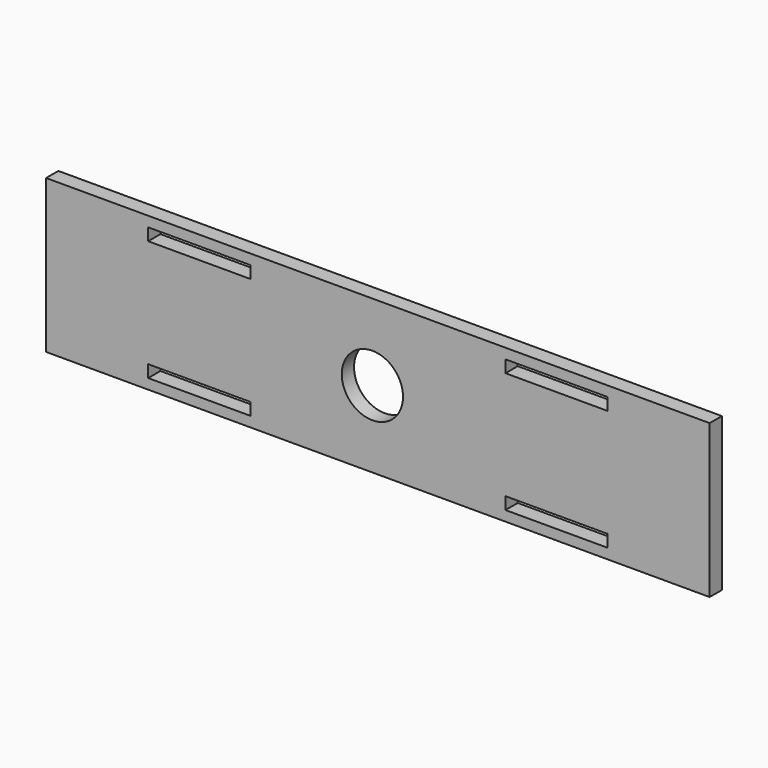
from build123d import *

# Parameters (mm, degrees)
F0_W     = 165.1
F0_H     = 38.1
F0_W_2   = 25.4
F0_H_2   = 3.048
F2_DEPTH = 3.81
F1_R     = 7.616868
F3_DEPTH = 28.956


with BuildPart() as f2:
    # F0 (on Front) → F2 (new body)
    with BuildSketch(Plane.XZ):
        with Locations((1.365851, 19.05)):
            Rectangle(F0_W, F0_H)
        with Locations((-43.084149, 4.064)):
            Rectangle(F0_W_2, F0_H_2, mode=Mode.SUBTRACT)
        with Locations((45.815851, 4.064)):
            Rectangle(F0_W_2, F0_H_2, mode=Mode.SUBTRACT)
        with Locations((-43.084149, 34.036)):
            Rectangle(F0_W_2, F0_H_2, mode=Mode.SUBTRACT)
        with Locations((45.815851, 34.036)):
            Rectangle(F0_W_2, F0_H_2, mode=Mode.SUBTRACT)
    extrude(amount=F2_DEPTH)

    # F1 (on face) → F3 (cut)
    with BuildSketch(Plane.XZ):
        with Locations((0, 19.05)):
            Circle(F1_R)
    extrude(amount=F3_DEPTH, mode=Mode.SUBTRACT)


solid = f2.part
